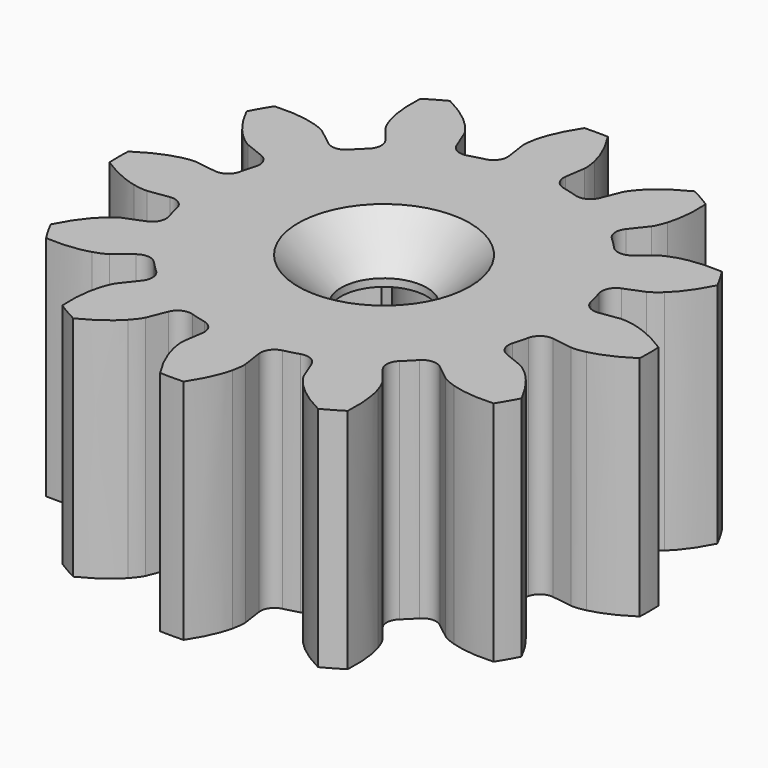
from build123d import *

# Parameters (mm, degrees)
PAD001_DEPTH    = 9
SKETCH001_R     = 1.7
POCKET_DEPTH    = 9.001
POCKET001_DEPTH = 7
CHAMFER_SIZE    = 1.7


with BuildPart() as part:
    # InvoluteGear → Pad001 (new body)
    with BuildSketch(Plane.XY):
        with BuildLine():
            Line((7.585543, -1.113908), (8.391342, -1.230997))
            add(Edge.make_bspline(
                [(8.391342, -1.230997), (8.453372, -1.235413), (8.639606, -1.239539), (8.952693, -1.168255)],
                knots=[0, 0, 0, 0, 1, 1, 1, 1], degree=3))
            add(Edge.make_bspline(
                [(8.952693, -1.168255), (9.32537, -1.081215), (9.856035, -0.88794), (10.49177, -0.464635)],
                knots=[0, 0, 0, 0, 1, 1, 1, 1], degree=3))
            ThreePointArc((10.49177, -0.464635), (10.502056, 0), (10.49177, 0.464635))
            add(Edge.make_bspline(
                [(10.49177, 0.464635), (9.856035, 0.88794), (9.32537, 1.081215), (8.952693, 1.168255)],
                knots=[0, 0, 0, 0, 1, 1, 1, 1], degree=3))
            add(Edge.make_bspline(
                [(8.952693, 1.168255), (8.639606, 1.239539), (8.453372, 1.235413), (8.391342, 1.230997)],
                knots=[0, 0, 0, 0, 1, 1, 1, 1], degree=3))
            Line((8.391342, 1.230997), (7.585543, 1.113908))
            ThreePointArc((7.585543, 1.113908), (7.1854, 1.20674), (6.955061, 1.546852))
            ThreePointArc((6.955061, 1.546852), (6.882222, 1.844086), (6.796685, 2.137918))
            ThreePointArc((6.796685, 2.137918), (6.826109, 2.547633), (7.126227, 2.828099))
            Line((7.126227, 2.828099), (7.882613, 3.129596))
            add(Edge.make_bspline(
                [(7.882613, 3.129596), (7.938542, 3.156787), (8.101888, 3.246331), (8.337387, 3.464608)],
                knots=[0, 0, 0, 0, 1, 1, 1, 1], degree=3))
            add(Edge.make_bspline(
                [(8.337387, 3.464608), (8.616615, 3.726326), (8.979547, 4.159039), (9.318457, 4.8435)],
                knots=[0, 0, 0, 0, 1, 1, 1, 1], degree=3))
            ThreePointArc((9.318457, 4.8435), (9.095047, 5.251028), (8.853822, 5.648271))
            add(Edge.make_bspline(
                [(8.853822, 5.648271), (8.091607, 5.696996), (7.5354, 5.599044), (7.169132, 5.488085)],
                knots=[0, 0, 0, 0, 1, 1, 1, 1], degree=3))
            add(Edge.make_bspline(
                [(7.169132, 5.488085), (6.862349, 5.393276), (6.703128, 5.296585), (6.651617, 5.261745)],
                knots=[0, 0, 0, 0, 1, 1, 1, 1], degree=3))
            Line((6.651617, 5.261745), (6.012319, 4.757444))
            ThreePointArc((6.012319, 4.757444), (5.619369, 4.637767), (5.249834, 4.817143))
            ThreePointArc((5.249834, 4.817143), (5.038136, 5.038136), (4.817143, 5.249834))
            ThreePointArc((4.817143, 5.249834), (4.637767, 5.619369), (4.757444, 6.012319))
            Line((4.757444, 6.012319), (5.261745, 6.651617))
            add(Edge.make_bspline(
                [(5.261745, 6.651617), (5.296585, 6.703128), (5.393276, 6.862349), (5.488085, 7.169132)],
                knots=[0, 0, 0, 0, 1, 1, 1, 1], degree=3))
            add(Edge.make_bspline(
                [(5.488085, 7.169132), (5.599044, 7.5354), (5.696996, 8.091607), (5.648271, 8.853822)],
                knots=[0, 0, 0, 0, 1, 1, 1, 1], degree=3))
            ThreePointArc((5.648271, 8.853822), (5.251028, 9.095047), (4.8435, 9.318457))
            add(Edge.make_bspline(
                [(4.8435, 9.318457), (4.159039, 8.979547), (3.726326, 8.616615), (3.464608, 8.337387)],
                knots=[0, 0, 0, 0, 1, 1, 1, 1], degree=3))
            add(Edge.make_bspline(
                [(3.464608, 8.337387), (3.246331, 8.101888), (3.156787, 7.938542), (3.129596, 7.882613)],
                knots=[0, 0, 0, 0, 1, 1, 1, 1], degree=3))
            Line((3.129596, 7.882613), (2.828099, 7.126227))
            ThreePointArc((2.828099, 7.126227), (2.547633, 6.826109), (2.137918, 6.796685))
            ThreePointArc((2.137918, 6.796685), (1.844086, 6.882222), (1.546852, 6.955061))
            ThreePointArc((1.546852, 6.955061), (1.20674, 7.1854), (1.113908, 7.585543))
            Line((1.113908, 7.585543), (1.230997, 8.391342))
            add(Edge.make_bspline(
                [(1.230997, 8.391342), (1.235413, 8.453372), (1.239539, 8.639606), (1.168255, 8.952693)],
                knots=[0, 0, 0, 0, 1, 1, 1, 1], degree=3))
            add(Edge.make_bspline(
                [(1.168255, 8.952693), (1.081215, 9.32537), (0.88794, 9.856035), (0.464635, 10.49177)],
                knots=[0, 0, 0, 0, 1, 1, 1, 1], degree=3))
            ThreePointArc((0.464635, 10.49177), (0, 10.502056), (-0.464635, 10.49177))
            add(Edge.make_bspline(
                [(-0.464635, 10.49177), (-0.88794, 9.856035), (-1.081215, 9.32537), (-1.168255, 8.952693)],
                knots=[0, 0, 0, 0, 1, 1, 1, 1], degree=3))
            add(Edge.make_bspline(
                [(-1.168255, 8.952693), (-1.239539, 8.639606), (-1.235413, 8.453372), (-1.230997, 8.391342)],
                knots=[0, 0, 0, 0, 1, 1, 1, 1], degree=3))
            Line((-1.230997, 8.391342), (-1.113908, 7.585543))
            ThreePointArc((-1.113908, 7.585543), (-1.20674, 7.1854), (-1.546852, 6.955061))
            ThreePointArc((-1.546852, 6.955061), (-1.844086, 6.882222), (-2.137918, 6.796685))
            ThreePointArc((-2.137918, 6.796685), (-2.547633, 6.826109), (-2.828099, 7.126227))
            Line((-2.828099, 7.126227), (-3.129596, 7.882613))
            add(Edge.make_bspline(
                [(-3.129596, 7.882613), (-3.156787, 7.938542), (-3.246331, 8.101888), (-3.464608, 8.337387)],
                knots=[0, 0, 0, 0, 1, 1, 1, 1], degree=3))
            add(Edge.make_bspline(
                [(-3.464608, 8.337387), (-3.726326, 8.616615), (-4.159039, 8.979547), (-4.8435, 9.318457)],
                knots=[0, 0, 0, 0, 1, 1, 1, 1], degree=3))
            ThreePointArc((-4.8435, 9.318457), (-5.251028, 9.095047), (-5.648271, 8.853822))
            add(Edge.make_bspline(
                [(-5.648271, 8.853822), (-5.696996, 8.091607), (-5.599044, 7.5354), (-5.488085, 7.169132)],
                knots=[0, 0, 0, 0, 1, 1, 1, 1], degree=3))
            add(Edge.make_bspline(
                [(-5.488085, 7.169132), (-5.393276, 6.862349), (-5.296585, 6.703128), (-5.261745, 6.651617)],
                knots=[0, 0, 0, 0, 1, 1, 1, 1], degree=3))
            Line((-5.261745, 6.651617), (-4.757444, 6.012319))
            ThreePointArc((-4.757444, 6.012319), (-4.637767, 5.619369), (-4.817143, 5.249834))
            ThreePointArc((-4.817143, 5.249834), (-5.038136, 5.038136), (-5.249834, 4.817143))
            ThreePointArc((-5.249834, 4.817143), (-5.619369, 4.637767), (-6.012319, 4.757444))
            Line((-6.012319, 4.757444), (-6.651617, 5.261745))
            add(Edge.make_bspline(
                [(-6.651617, 5.261745), (-6.703128, 5.296585), (-6.862349, 5.393276), (-7.169132, 5.488085)],
                knots=[0, 0, 0, 0, 1, 1, 1, 1], degree=3))
            add(Edge.make_bspline(
                [(-7.169132, 5.488085), (-7.5354, 5.599044), (-8.091607, 5.696996), (-8.853822, 5.648271)],
                knots=[0, 0, 0, 0, 1, 1, 1, 1], degree=3))
            ThreePointArc((-8.853822, 5.648271), (-9.095047, 5.251028), (-9.318457, 4.8435))
            add(Edge.make_bspline(
                [(-9.318457, 4.8435), (-8.979547, 4.159039), (-8.616615, 3.726326), (-8.337387, 3.464608)],
                knots=[0, 0, 0, 0, 1, 1, 1, 1], degree=3))
            add(Edge.make_bspline(
                [(-8.337387, 3.464608), (-8.101888, 3.246331), (-7.938542, 3.156787), (-7.882613, 3.129596)],
                knots=[0, 0, 0, 0, 1, 1, 1, 1], degree=3))
            Line((-7.882613, 3.129596), (-7.126227, 2.828099))
            ThreePointArc((-7.126227, 2.828099), (-6.826109, 2.547633), (-6.796685, 2.137918))
            ThreePointArc((-6.796685, 2.137918), (-6.882222, 1.844086), (-6.955061, 1.546852))
            ThreePointArc((-6.955061, 1.546852), (-7.1854, 1.20674), (-7.585543, 1.113908))
            Line((-7.585543, 1.113908), (-8.391342, 1.230997))
            add(Edge.make_bspline(
                [(-8.391342, 1.230997), (-8.453372, 1.235413), (-8.639606, 1.239539), (-8.952693, 1.168255)],
                knots=[0, 0, 0, 0, 1, 1, 1, 1], degree=3))
            add(Edge.make_bspline(
                [(-8.952693, 1.168255), (-9.32537, 1.081215), (-9.856035, 0.88794), (-10.49177, 0.464635)],
                knots=[0, 0, 0, 0, 1, 1, 1, 1], degree=3))
            ThreePointArc((-10.49177, 0.464635), (-10.502056, 0), (-10.49177, -0.464635))
            add(Edge.make_bspline(
                [(-10.49177, -0.464635), (-9.856035, -0.88794), (-9.32537, -1.081215), (-8.952693, -1.168255)],
                knots=[0, 0, 0, 0, 1, 1, 1, 1], degree=3))
            add(Edge.make_bspline(
                [(-8.952693, -1.168255), (-8.639606, -1.239539), (-8.453372, -1.235413), (-8.391342, -1.230997)],
                knots=[0, 0, 0, 0, 1, 1, 1, 1], degree=3))
            Line((-8.391342, -1.230997), (-7.585543, -1.113908))
            ThreePointArc((-7.585543, -1.113908), (-7.1854, -1.20674), (-6.955061, -1.546852))
            ThreePointArc((-6.955061, -1.546852), (-6.882222, -1.844086), (-6.796685, -2.137918))
            ThreePointArc((-6.796685, -2.137918), (-6.826109, -2.547633), (-7.126227, -2.828099))
            Line((-7.126227, -2.828099), (-7.882613, -3.129596))
            add(Edge.make_bspline(
                [(-7.882613, -3.129596), (-7.938542, -3.156787), (-8.101888, -3.246331), (-8.337387, -3.464608)],
                knots=[0, 0, 0, 0, 1, 1, 1, 1], degree=3))
            add(Edge.make_bspline(
                [(-8.337387, -3.464608), (-8.616615, -3.726326), (-8.979547, -4.159039), (-9.318457, -4.8435)],
                knots=[0, 0, 0, 0, 1, 1, 1, 1], degree=3))
            ThreePointArc((-9.318457, -4.8435), (-9.095047, -5.251028), (-8.853822, -5.648271))
            add(Edge.make_bspline(
                [(-8.853822, -5.648271), (-8.091607, -5.696996), (-7.5354, -5.599044), (-7.169132, -5.488085)],
                knots=[0, 0, 0, 0, 1, 1, 1, 1], degree=3))
            add(Edge.make_bspline(
                [(-7.169132, -5.488085), (-6.862349, -5.393276), (-6.703128, -5.296585), (-6.651617, -5.261745)],
                knots=[0, 0, 0, 0, 1, 1, 1, 1], degree=3))
            Line((-6.651617, -5.261745), (-6.012319, -4.757444))
            ThreePointArc((-6.012319, -4.757444), (-5.619369, -4.637767), (-5.249834, -4.817143))
            ThreePointArc((-5.249834, -4.817143), (-5.038136, -5.038136), (-4.817143, -5.249834))
            ThreePointArc((-4.817143, -5.249834), (-4.637767, -5.619369), (-4.757444, -6.012319))
            Line((-4.757444, -6.012319), (-5.261745, -6.651617))
            add(Edge.make_bspline(
                [(-5.261745, -6.651617), (-5.296585, -6.703128), (-5.393276, -6.862349), (-5.488085, -7.169132)],
                knots=[0, 0, 0, 0, 1, 1, 1, 1], degree=3))
            add(Edge.make_bspline(
                [(-5.488085, -7.169132), (-5.599044, -7.5354), (-5.696996, -8.091607), (-5.648271, -8.853822)],
                knots=[0, 0, 0, 0, 1, 1, 1, 1], degree=3))
            ThreePointArc((-5.648271, -8.853822), (-5.251028, -9.095047), (-4.8435, -9.318457))
            add(Edge.make_bspline(
                [(-4.8435, -9.318457), (-4.159039, -8.979547), (-3.726326, -8.616615), (-3.464608, -8.337387)],
                knots=[0, 0, 0, 0, 1, 1, 1, 1], degree=3))
            add(Edge.make_bspline(
                [(-3.464608, -8.337387), (-3.246331, -8.101888), (-3.156787, -7.938542), (-3.129596, -7.882613)],
                knots=[0, 0, 0, 0, 1, 1, 1, 1], degree=3))
            Line((-3.129596, -7.882613), (-2.828099, -7.126227))
            ThreePointArc((-2.828099, -7.126227), (-2.547633, -6.826109), (-2.137918, -6.796685))
            ThreePointArc((-2.137918, -6.796685), (-1.844086, -6.882222), (-1.546852, -6.955061))
            ThreePointArc((-1.546852, -6.955061), (-1.20674, -7.1854), (-1.113908, -7.585543))
            Line((-1.113908, -7.585543), (-1.230997, -8.391342))
            add(Edge.make_bspline(
                [(-1.230997, -8.391342), (-1.235413, -8.453372), (-1.239539, -8.639606), (-1.168255, -8.952693)],
                knots=[0, 0, 0, 0, 1, 1, 1, 1], degree=3))
            add(Edge.make_bspline(
                [(-1.168255, -8.952693), (-1.081215, -9.32537), (-0.88794, -9.856035), (-0.464635, -10.49177)],
                knots=[0, 0, 0, 0, 1, 1, 1, 1], degree=3))
            ThreePointArc((-0.464635, -10.49177), (0, -10.502056), (0.464635, -10.49177))
            add(Edge.make_bspline(
                [(0.464635, -10.49177), (0.88794, -9.856035), (1.081215, -9.32537), (1.168255, -8.952693)],
                knots=[0, 0, 0, 0, 1, 1, 1, 1], degree=3))
            add(Edge.make_bspline(
                [(1.168255, -8.952693), (1.239539, -8.639606), (1.235413, -8.453372), (1.230997, -8.391342)],
                knots=[0, 0, 0, 0, 1, 1, 1, 1], degree=3))
            Line((1.230997, -8.391342), (1.113908, -7.585543))
            ThreePointArc((1.113908, -7.585543), (1.20674, -7.1854), (1.546852, -6.955061))
            ThreePointArc((1.546852, -6.955061), (1.844086, -6.882222), (2.137918, -6.796685))
            ThreePointArc((2.137918, -6.796685), (2.547633, -6.826109), (2.828099, -7.126227))
            Line((2.828099, -7.126227), (3.129596, -7.882613))
            add(Edge.make_bspline(
                [(3.129596, -7.882613), (3.156787, -7.938542), (3.246331, -8.101888), (3.464608, -8.337387)],
                knots=[0, 0, 0, 0, 1, 1, 1, 1], degree=3))
            add(Edge.make_bspline(
                [(3.464608, -8.337387), (3.726326, -8.616615), (4.159039, -8.979547), (4.8435, -9.318457)],
                knots=[0, 0, 0, 0, 1, 1, 1, 1], degree=3))
            ThreePointArc((4.8435, -9.318457), (5.251028, -9.095047), (5.648271, -8.853822))
            add(Edge.make_bspline(
                [(5.648271, -8.853822), (5.696996, -8.091607), (5.599044, -7.5354), (5.488085, -7.169132)],
                knots=[0, 0, 0, 0, 1, 1, 1, 1], degree=3))
            add(Edge.make_bspline(
                [(5.488085, -7.169132), (5.393276, -6.862349), (5.296585, -6.703128), (5.261745, -6.651617)],
                knots=[0, 0, 0, 0, 1, 1, 1, 1], degree=3))
            Line((5.261745, -6.651617), (4.757444, -6.012319))
            ThreePointArc((4.757444, -6.012319), (4.637767, -5.619369), (4.817143, -5.249834))
            ThreePointArc((4.817143, -5.249834), (5.038136, -5.038136), (5.249834, -4.817143))
            ThreePointArc((5.249834, -4.817143), (5.619369, -4.637767), (6.012319, -4.757444))
            Line((6.012319, -4.757444), (6.651617, -5.261745))
            add(Edge.make_bspline(
                [(6.651617, -5.261745), (6.703128, -5.296585), (6.862349, -5.393276), (7.169132, -5.488085)],
                knots=[0, 0, 0, 0, 1, 1, 1, 1], degree=3))
            add(Edge.make_bspline(
                [(7.169132, -5.488085), (7.5354, -5.599044), (8.091607, -5.696996), (8.853822, -5.648271)],
                knots=[0, 0, 0, 0, 1, 1, 1, 1], degree=3))
            ThreePointArc((8.853822, -5.648271), (9.095047, -5.251028), (9.318457, -4.8435))
            add(Edge.make_bspline(
                [(9.318457, -4.8435), (8.979547, -4.159039), (8.616615, -3.726326), (8.337387, -3.464608)],
                knots=[0, 0, 0, 0, 1, 1, 1, 1], degree=3))
            add(Edge.make_bspline(
                [(8.337387, -3.464608), (8.101888, -3.246331), (7.938542, -3.156787), (7.882613, -3.129596)],
                knots=[0, 0, 0, 0, 1, 1, 1, 1], degree=3))
            Line((7.882613, -3.129596), (7.126227, -2.828099))
            ThreePointArc((7.126227, -2.828099), (6.826109, -2.547633), (6.796685, -2.137918))
            ThreePointArc((6.796685, -2.137918), (6.882222, -1.844086), (6.955061, -1.546852))
            ThreePointArc((6.955061, -1.546852), (7.1854, -1.20674), (7.585543, -1.113908))
        make_face()
    extrude(amount=-PAD001_DEPTH)

    # Sketch001 → Pocket (cut, through all)
    with BuildSketch(Plane(origin=(0, 0, -9), x_dir=(1, 0, 0), z_dir=(0, 0, -1))):
        Circle(SKETCH001_R)
    extrude(amount=-POCKET_DEPTH, mode=Mode.SUBTRACT)

    # Sketch005 → Pocket001 (cut)
    with BuildSketch(Plane(origin=(0, 0, -9), x_dir=(1, 0, 0), z_dir=(0, 0, -1))):
        with BuildLine():
            Line((-3.057777, 3.7), (-2.638181, 3.7))
            ThreePointArc((-2.638181, 3.7), (0, 2.5), (2.638181, 3.7))
            Line((2.638181, 3.7), (3.057777, 3.7))
            ThreePointArc((3.057777, -3.7), (4.8, 0), (3.057777, 3.7))
            Line((3.057777, -3.7), (2.638181, -3.7))
            ThreePointArc((2.638181, -3.7), (0, -2.5), (-2.638181, -3.7))
            Line((-2.638181, -3.7), (-3.057777, -3.7))
            ThreePointArc((-3.057777, 3.7), (-4.8, 0), (-3.057777, -3.7))
        make_face()
    extrude(amount=-POCKET001_DEPTH, mode=Mode.SUBTRACT)

    # Chamfer
    chamfer_edges = [part.edges().sort_by_distance(p)[0] for p in [
        (-1.7, 0, 0),
    ]]
    chamfer(chamfer_edges, length=CHAMFER_SIZE)


solid = part.part
